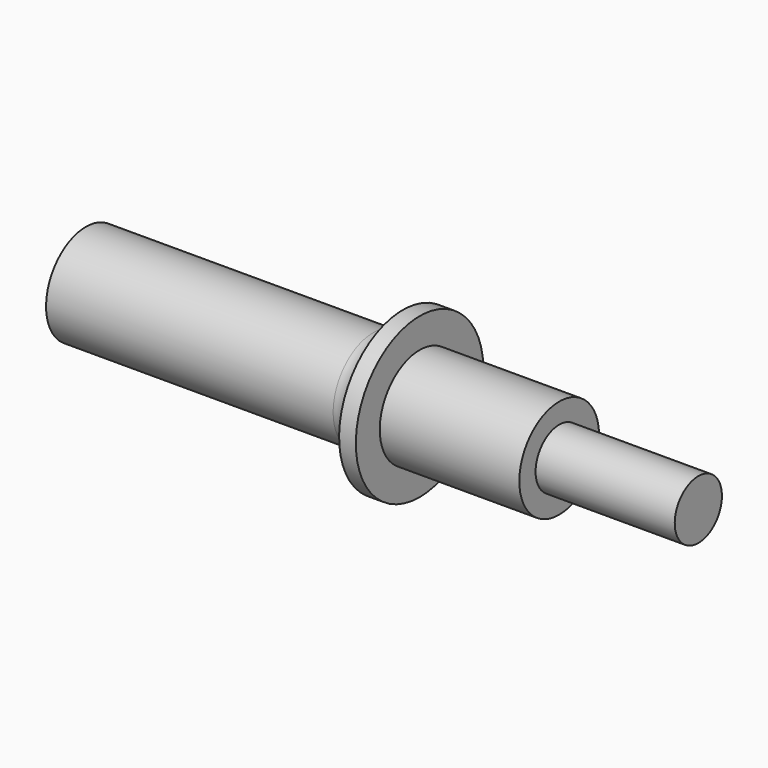
from build123d import *


with BuildPart() as f1:
    # F0 (on Front) → F1 (revolve)
    with BuildSketch(Plane.XZ):
        Polygon((-64.568345, 0), (7.431655, 0), (19.131655, 0), (19.131655, 12.5), (-64.568345, 12.5), align=None)
        with BuildLine():
            ThreePointArc((7.431655, 0), (12.734956, -2.196699), (14.931655, -7.5))
            Line((14.931655, -7.5), (19.131655, -7.5))
            Line((19.131655, -7.5), (19.131655, 0))
            Line((19.131655, 0), (7.431655, 0))
        make_face()
        Polygon((19.131655, 12.5), (19.131655, 0), (54.131655, 0), (54.131655, 5.1), (89.031655, 5.1), (89.031655, 12.5), align=None)
    revolve(axis=Axis((12.231655, 0, 12.5), (1, 0, 0)))


solid = f1.part
